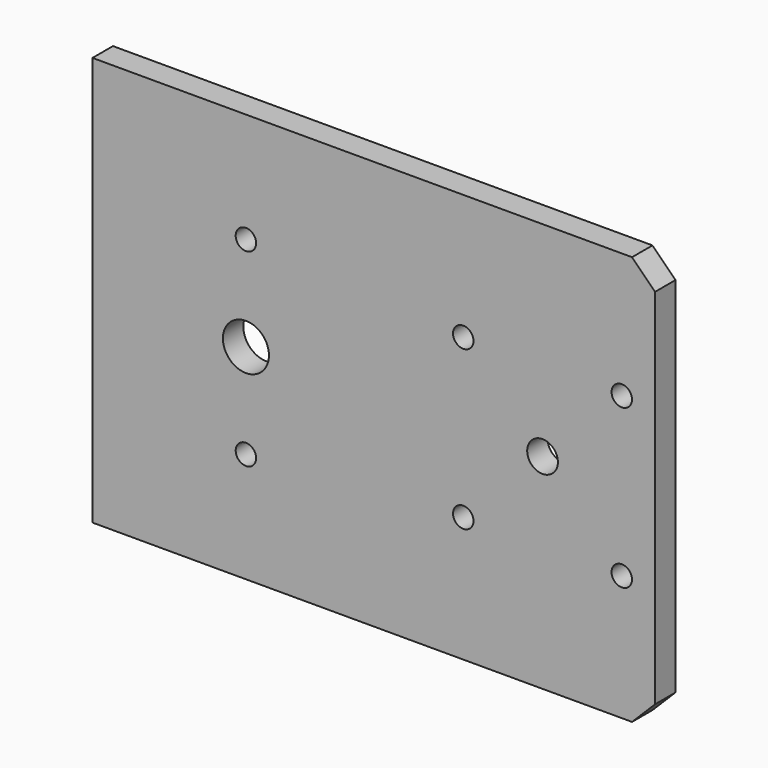
from build123d import *

# Parameters (mm, degrees)
F0_W     = 110
F0_H     = 80
F0_R     = 2
F0_R_2   = 4.5
F0_R_3   = 3
F1_DEPTH = 5
F2_SIZE  = 4.5
F3_SIZE  = 4.5


with BuildPart() as f1:
    # F0 (on Front) → F1 (new body)
    with BuildSketch(Plane.XZ):
        Rectangle(F0_W, F0_H)
        with Locations((-25, -18.5)):
            Circle(F0_R, mode=Mode.SUBTRACT)
        with Locations((17.5, -15.5)):
            Circle(F0_R, mode=Mode.SUBTRACT)
        with Locations((48.5, -15.5)):
            Circle(F0_R, mode=Mode.SUBTRACT)
        with Locations((-25, 0)):
            Circle(F0_R_2, mode=Mode.SUBTRACT)
        with Locations((-25, 18.5)):
            Circle(F0_R, mode=Mode.SUBTRACT)
        with Locations((17.5, 15.5)):
            Circle(F0_R, mode=Mode.SUBTRACT)
        with Locations((33, 0)):
            Circle(F0_R_3, mode=Mode.SUBTRACT)
        with Locations((48.5, 15.5)):
            Circle(F0_R, mode=Mode.SUBTRACT)
    extrude(amount=F1_DEPTH)

    # F2
    f2_edges = [f1.edges().sort_by_distance(p)[0] for p in [
        (55, -2.5, 40),
    ]]
    chamfer(f2_edges, length=F2_SIZE)

    # F3
    f3_edges = [f1.edges().sort_by_distance(p)[0] for p in [
        (55, -2.5, -40),
    ]]
    chamfer(f3_edges, length=F3_SIZE)


solid = f1.part
